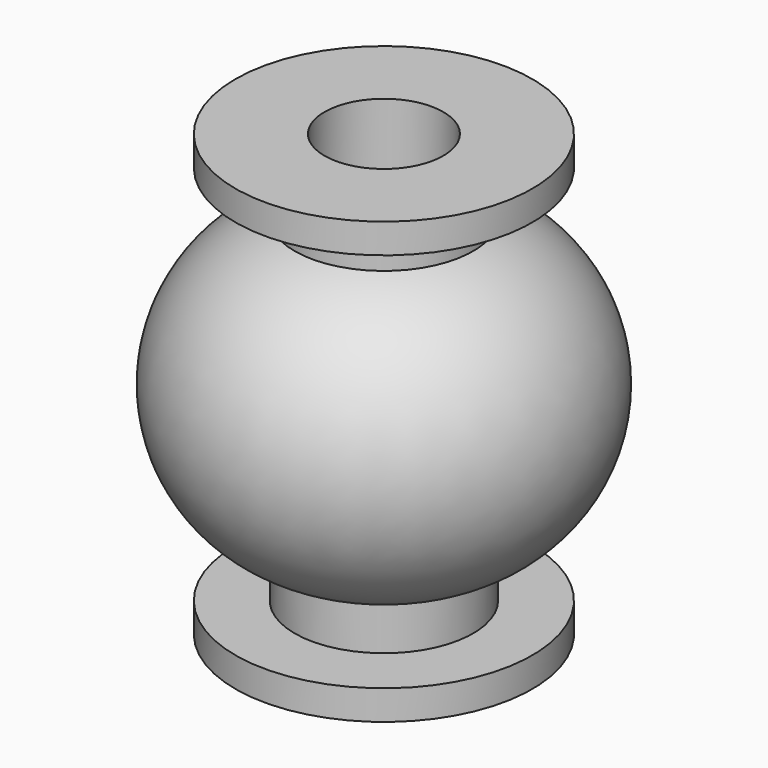
from build123d import *


with BuildPart() as f1:
    # F0 (on Front) → F1 (revolve)
    with BuildSketch(Plane.XZ):
        with BuildLine():
            Line((-3.004782, 6.416661), (-3.004782, 4.916661))
            ThreePointArc((-3.004782, 4.916661), (-6.5, 0), (-3.004782, -4.916661))
            Line((-3.004782, -4.916661), (-3.004782, -6.416661))
            Line((-3.004782, -6.416661), (-5, -6.416661))
            Line((-5, -6.416661), (-5, -7.416661))
            Line((-5, -7.416661), (-2, -7.416661))
            Line((-2, -7.416661), (-2, -4.74208))
            ThreePointArc((-2, -4.74208), (-6.098891, -0.006721), (-2, 4.728638))
            Line((-2, 4.728638), (-2, 7.416661))
            Line((-2, 7.416661), (-5, 7.416661))
            Line((-5, 7.416661), (-5, 6.416661))
            Line((-5, 6.416661), (-3.004782, 6.416661))
        make_face()
    revolve(axis=Axis((0, 0, -0.03735), (0, 0, -1)))


solid = f1.part
